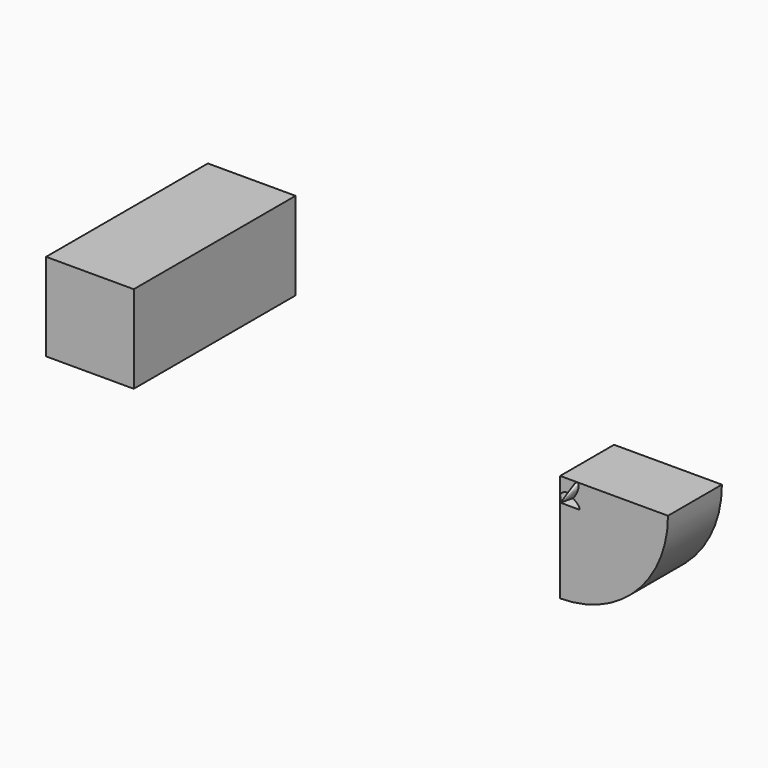
from build123d import *

# Parameters (mm, degrees)
F0_W     = 6.5036790227
F0_H     = 6.5036790227
F1_DEPTH = 10
F2_DEPTH = 5


with BuildPart() as f1:
    # F0 (on Front) → F1 (new body)
    with BuildSketch(Plane.XZ):
        with Locations((-28.9659805889, 27.6394066744)):
            Rectangle(F0_W, F0_H)
    extrude(amount=-F1_DEPTH)

    # F0 (on Front) → F2 (join)
    with BuildSketch(Plane.XZ):
        with Locations((-28.9659805889, 27.6394066744)):
            Rectangle(F0_W, F0_H)
    extrude(amount=F2_DEPTH)


with BuildPart() as f2:
    # F0 (on Front) → F2, piece 2 (new body)
    with BuildSketch(Plane.XZ):
        with BuildLine():
            Line((5.907193023, 28.9849955589), (5.907193023, 20.9849955589))
            ThreePointArc((5.907193023, 20.9849955589), (11.5640472725, 23.3281413094), (13.907193023, 28.9849955589))
            Line((13.907193023, 28.9849955589), (5.907193023, 28.9849955589))
        make_face()
    extrude(amount=F2_DEPTH)

    # F6 (on face) → F8 section 0
    with BuildSketch(Plane.XZ.offset(5), mode=Mode.PRIVATE) as f8_s0:
        with BuildLine():
            add(Edge.make_bspline(
                [(6.6479614238, 28.0581297102), (5.9356706234, 28.2826348309), (5.9108519817, 27.748271656), (5.8860333399, 27.213908481), (6.6332192732, 27.7407206239)],
                knots=[3.7677822989, 3.7677822989, 3.7677822989, 6.1181891325, 6.1181891325, 8.4685959662, 8.4685959662, 8.4685959662], degree=2, weights=[1, 0.385355375, 1, 0.385355375, 1]))
            add(Edge.make_bspline(
                [(6.6332192732, 27.7407206239), (6.8248689432, 27.0398889972), (7.3054578977, 27.2432157851), (7.7860468523, 27.446542573), (6.8413803251, 27.8287890608)],
                knots=[0.4819198463, 0.4819198463, 0.4819198463, 2.9528841236, 2.9528841236, 5.4238484009, 5.4238484009, 5.4238484009], degree=2, weights=[1, 0.3290658762, 1, 0.3290658762, 1]))
            add(Edge.make_bspline(
                [(6.8413803251, 27.8287890608), (7.6523704282, 28.4745041463), (7.2509304212, 28.95049957), (6.8494904141, 29.4264949938), (6.6479614238, 28.0581297102)],
                knots=[3.6933529609, 3.6933529609, 3.6933529609, 6.1260689733, 6.1260689733, 8.5587849857, 8.5587849857, 8.5587849857], degree=2, weights=[1, 0.3470636537, 1, 0.3470636537, 1]))
        make_face()
    loft([f8_s0.sketch, Vertex(6.7390613258, -6, 27.9171150178)])


solid = Compound([f1.part, f2.part])
